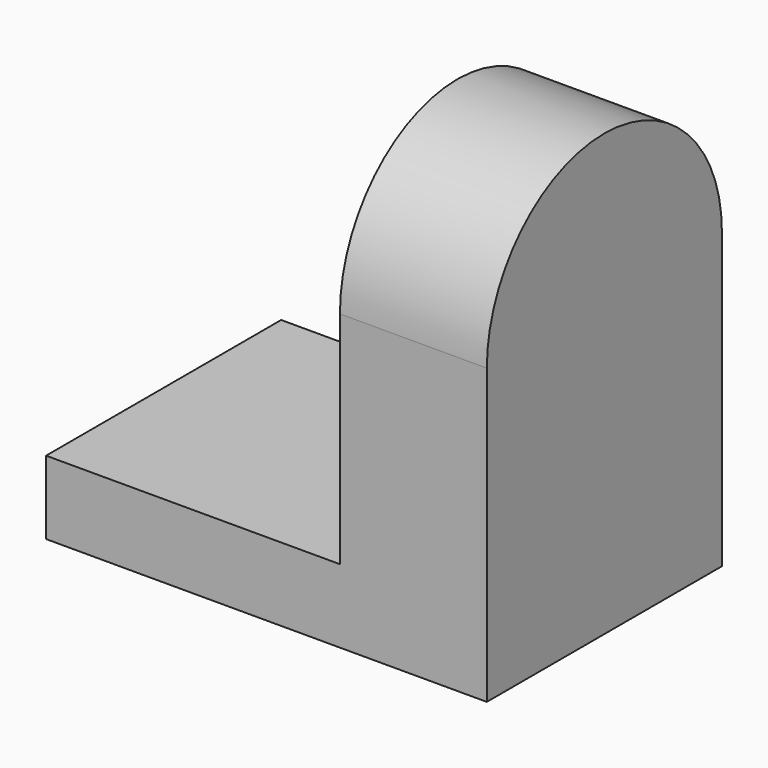
from build123d import *

# Parameters (mm, degrees)
F1_DEPTH = 38.1
F2_W     = 106.504818
F2_H     = 101.6
F3_DEPTH = 25.4


with BuildPart() as f1:
    # F0 (on Right) → F1 (new body)
    with BuildSketch(Plane.YZ):
        with BuildLine():
            Line((0, 25.4), (0, 0))
            Line((0, 0), (25.4, 0))
            Line((25.4, 0), (25.4, 25.4))
            ThreePointArc((25.4, 25.4), (12.7, 38.1), (0, 25.4))
        make_face()
    extrude(amount=F1_DEPTH)

    # F2 (on Right) → F3 (cut)
    with BuildSketch(Plane.YZ):
        with Locations((53.252409, 57.15)):
            Rectangle(F2_W, F2_H)
    extrude(amount=F3_DEPTH, mode=Mode.SUBTRACT)


solid = f1.part
